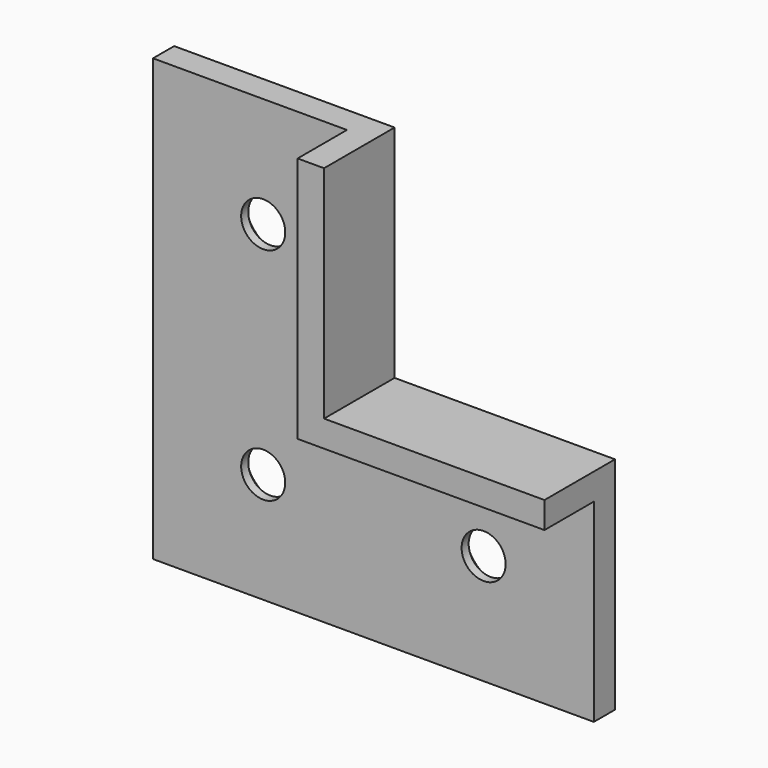
from build123d import *

# Parameters (mm, degrees)
F1_DEPTH       = 3
F3_DEPTH       = 7
F5_D           = 5
F5_CSINK_D     = 9
F5_CSINK_ANGLE = 90


with BuildPart() as f1:
    # F0 (on Front) → F1 (new body)
    with BuildSketch(Plane.XZ):
        Polygon((0, -25), (0, 0), (-25, 0), (-25, -50), (25, -50), (25, -25), align=None)
    extrude(amount=-F1_DEPTH)

    # F2 (on face) → F3 (join)
    with BuildSketch(Plane.XZ):
        Polygon((0, -25), (0, 0), (-3, 0), (-3, -28), (25, -28), (25, -25), align=None)
    extrude(amount=F3_DEPTH)

    # F5 (through all)
    with Locations(Plane(origin=(0, 3, 0), x_dir=(-1, 0, 0), z_dir=(0, 1, 0))):
        with Locations((12.5, -12.5), (12.5, -37.5), (-12.5, -37.5)):
            CounterSinkHole(F5_D / 2, F5_CSINK_D / 2, counter_sink_angle=F5_CSINK_ANGLE)


solid = f1.part
